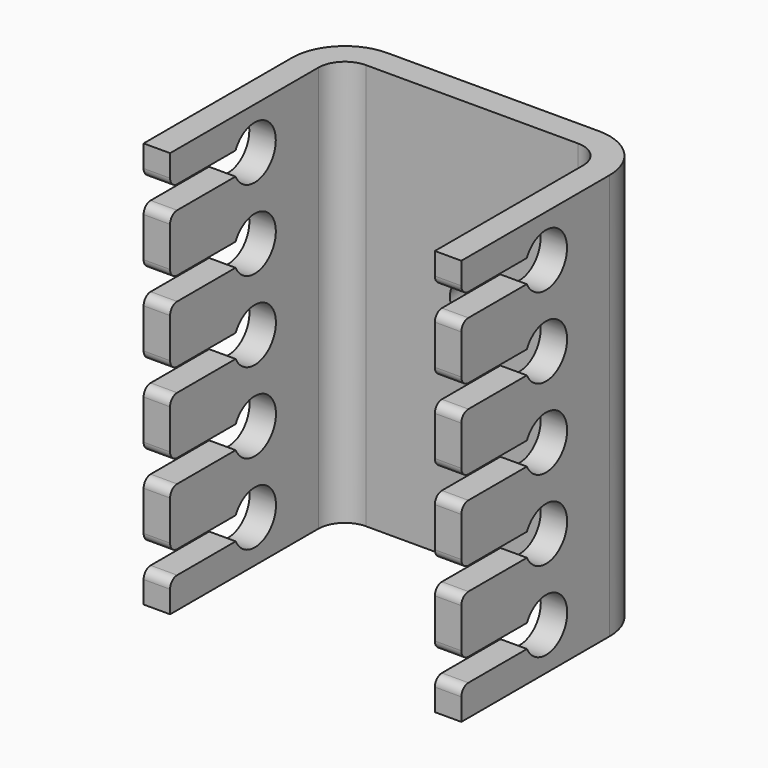
from build123d import *

# Parameters (mm, degrees)
PAD_DEPTH       = 23
POCKET_DEPTH    = 18.001
FILLET_R        = 0.5
SKETCH002_R     = 1.25
POCKET001_DEPTH = 5


with BuildPart() as part:
    # Sketch → Pad (new body)
    with BuildSketch(Plane.XY):
        with BuildLine():
            Line((-9, -13.5), (-9, -3))
            ThreePointArc((-6, 0), (-8.12132, -0.87868), (-9, -3))
            Line((-6, 0), (6, 0))
            ThreePointArc((9, -3), (8.12132, -0.87868), (6, 0))
            Line((9, -3), (9, -13.5))
            Line((9, -13.5), (7.5, -13.5))
            Line((7.5, -13.5), (7.5, -3))
            ThreePointArc((7.5, -3), (7.06066, -1.93934), (6, -1.5))
            Line((6, -1.5), (-6, -1.5))
            ThreePointArc((-6, -1.5), (-7.06066, -1.93934), (-7.5, -3))
            Line((-7.5, -3), (-7.5, -13.5))
            Line((-9, -13.5), (-7.5, -13.5))
        make_face()
    extrude(amount=PAD_DEPTH)

    # Sketch001 (on DatumPlane) → Pocket (cut, through all)
    with BuildSketch(Plane.YZ.offset(9)):
        with BuildLine():
            ThreePointArc((-8.851851, 1.75), (-6, 2.4), (-8.851851, 3.05))
            Line((-8.851851, 3.05), (-14, 3.05))
            Line((-14, 3.05), (-14, 1.75))
            Line((-8.851851, 1.75), (-14, 1.75))
        make_face()
        with BuildLine():
            ThreePointArc((-8.855532, 6.3), (-6.003681, 6.95), (-8.855532, 7.6))
            Line((-8.855532, 7.6), (-14.003681, 7.6))
            Line((-14.003681, 7.6), (-14.003681, 6.3))
            Line((-8.855532, 6.3), (-14.003681, 6.3))
        make_face()
        with BuildLine():
            ThreePointArc((-8.859213, 10.85), (-6.007362, 11.5), (-8.859213, 12.15))
            Line((-8.859213, 12.15), (-14.007362, 12.15))
            Line((-14.007362, 12.15), (-14.007362, 10.85))
            Line((-8.859213, 10.85), (-14.007362, 10.85))
        make_face()
        with BuildLine():
            ThreePointArc((-8.862893, 15.4), (-6.011042, 16.05), (-8.862893, 16.7))
            Line((-8.862893, 16.7), (-14.011042, 16.7))
            Line((-14.011042, 16.7), (-14.011042, 15.4))
            Line((-8.862893, 15.4), (-14.011042, 15.4))
        make_face()
        with BuildLine():
            ThreePointArc((-8.866575, 19.95), (-6.014724, 20.6), (-8.866575, 21.25))
            Line((-8.866575, 21.25), (-14.014724, 21.25))
            Line((-14.014724, 21.25), (-14.014724, 19.95))
            Line((-8.866575, 19.95), (-14.014724, 19.95))
        make_face()
    extrude(amount=-POCKET_DEPTH, mode=Mode.SUBTRACT)

    # Fillet
    fillet_edges = [part.edges().sort_by_distance(p)[0] for p in [
        (-8.25, -13.5, 19.95),
        (-8.25, -13.5, 21.25),
        (-8.25, -13.5, 16.7),
        (-8.25, -13.5, 15.4),
        (-8.25, -13.5, 12.15),
        (-8.25, -13.5, 10.85),
        (-8.25, -13.5, 7.6),
        (-8.25, -13.5, 6.3),
        (-8.25, -13.5, 3.05),
        (-8.25, -13.5, 1.75),
        (8.25, -13.5, 21.25),
        (8.25, -13.5, 19.95),
        (8.25, -13.5, 16.7),
        (8.25, -13.5, 15.4),
        (8.25, -13.5, 12.15),
        (8.25, -13.5, 10.85),
        (8.25, -13.5, 7.6),
        (8.25, -13.5, 6.3),
        (8.25, -13.5, 3.05),
        (8.25, -13.5, 1.75),
    ]]
    fillet(fillet_edges, radius=FILLET_R)

    # Sketch002 (on DatumPlane) → Pocket001 (cut)
    with BuildSketch(Plane(origin=(0, 0, 0), x_dir=(-1, 0, 0), z_dir=(0, 1, 0))):
        with Locations((0, 13)):
            Circle(SKETCH002_R)
    extrude(amount=-POCKET001_DEPTH, mode=Mode.SUBTRACT)


solid = part.part
